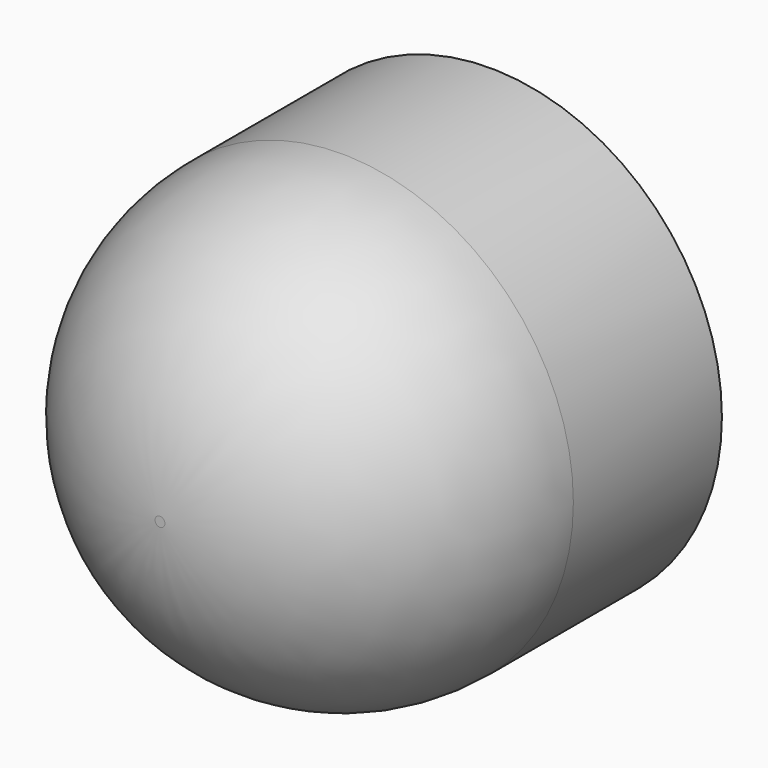
from build123d import *

# Parameters (mm, degrees)
F0_R     = 285.475239
F1_DEPTH = 508
F2_T     = -127
F3_R     = 279.4


with BuildPart() as f1:
    # F0 (on Front) → F1 (new body)
    with BuildSketch(Plane.XZ):
        Circle(F0_R)
    extrude(amount=F1_DEPTH)

    # F2
    f2_openings = [f1.faces().sort_by_distance(p)[0] for p in [
        (0, 0, 0),
    ]]
    offset(amount=F2_T, openings=f2_openings)

    # F3
    f3_edges = [f1.edges().sort_by_distance(p)[0] for p in [
        (-285.475239, -508, 0),
    ]]
    fillet(f3_edges, radius=F3_R)


solid = f1.part
